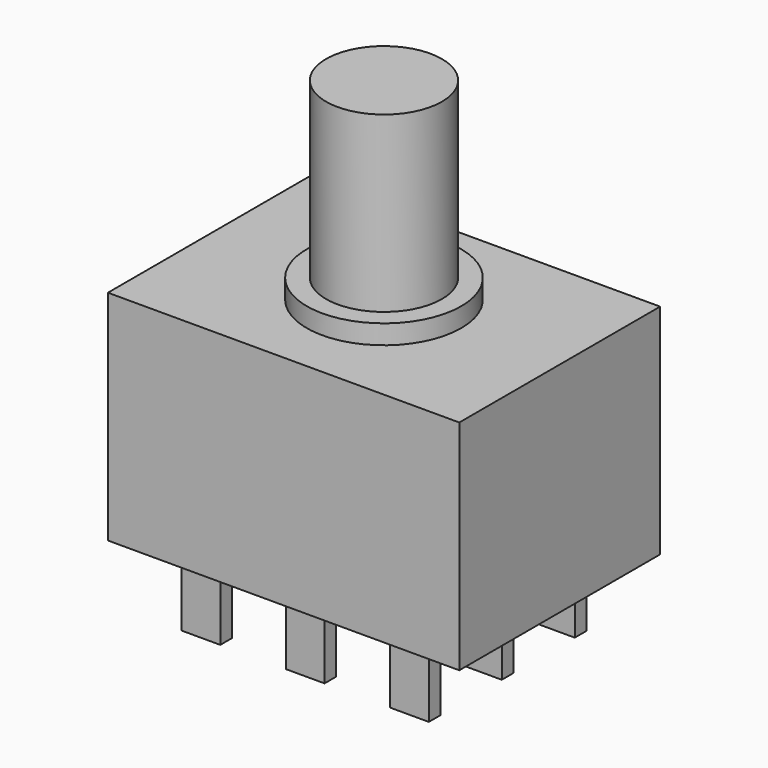
from build123d import *

# Parameters (mm, degrees)
F0_W      = 18.2
F0_H      = 13
F1_DEPTH  = 11.3
F2_R      = 4
F2_R_2    = 3
F3_DEPTH  = 1
F3_FACE_R = 3
F4_DEPTH  = 10
F5_W      = 2
F5_H      = 0.75
F6_DEPTH  = 3.8


with BuildPart() as f1:
    # F0 (on Top) → F1 (new body)
    with BuildSketch(Plane.XY):
        Rectangle(F0_W, F0_H)
    extrude(amount=F1_DEPTH)

    # F2 (on face) → F3 (join)
    with BuildSketch(Plane.XY.offset(11.3)):
        Circle(F2_R)
        Circle(F2_R_2, mode=Mode.SUBTRACT)
    extrude(amount=F3_DEPTH)

    # F3_face (on face) → F4 (join)
    with BuildSketch(Plane.XY.offset(11.3)):
        Circle(F3_FACE_R)
    extrude(amount=F4_DEPTH)

    # F5 (on face) → F6 (join)
    with BuildSketch(Plane(origin=(0, 0, 0), x_dir=(1, 0, 0), z_dir=(0, 0, -1))):
        with Locations((-5.4, 4.725)):
            Rectangle(F5_W, F5_H)
        with Locations((0, 4.725)):
            Rectangle(F5_W, F5_H)
        with Locations((5.4, 4.725)):
            Rectangle(F5_W, F5_H)
        with Locations((5.4, 0)):
            Rectangle(F5_W, F5_H)
        Rectangle(F5_W, F5_H)
        with Locations((-5.4, 0)):
            Rectangle(F5_W, F5_H)
        with Locations((5.4, -4.725)):
            Rectangle(F5_W, F5_H)
        with Locations((0, -4.725)):
            Rectangle(F5_W, F5_H)
        with Locations((-5.4, -4.725)):
            Rectangle(F5_W, F5_H)
    extrude(amount=F6_DEPTH)


solid = f1.part
